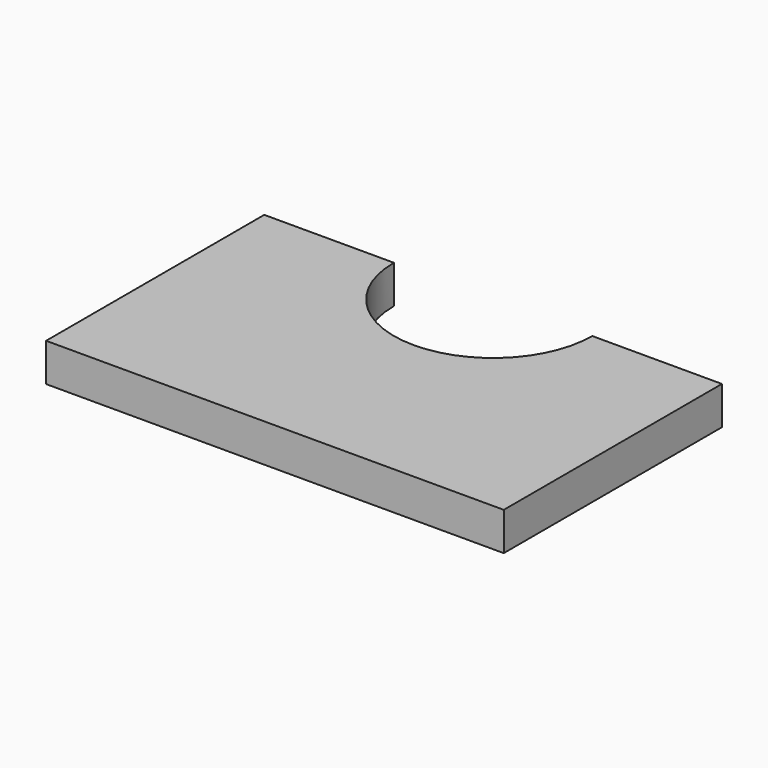
from build123d import *

# Parameters (mm, degrees)
F1_DEPTH = 6.35


with BuildPart() as f1:
    # F0 (on Top) → F1 (new body)
    with BuildSketch(Plane.XY):
        with BuildLine():
            Line((21.59, 0), (0, 0))
            Line((0, 0), (0, -45.4025))
            Line((0, -45.4025), (76.2, -45.4025))
            Line((76.2, -45.4025), (76.2, 0))
            Line((76.2, 0), (54.61, 0))
            ThreePointArc((54.61, 0), (38.1, -16.51), (21.59, 0))
        make_face()
    extrude(amount=F1_DEPTH)


solid = f1.part
